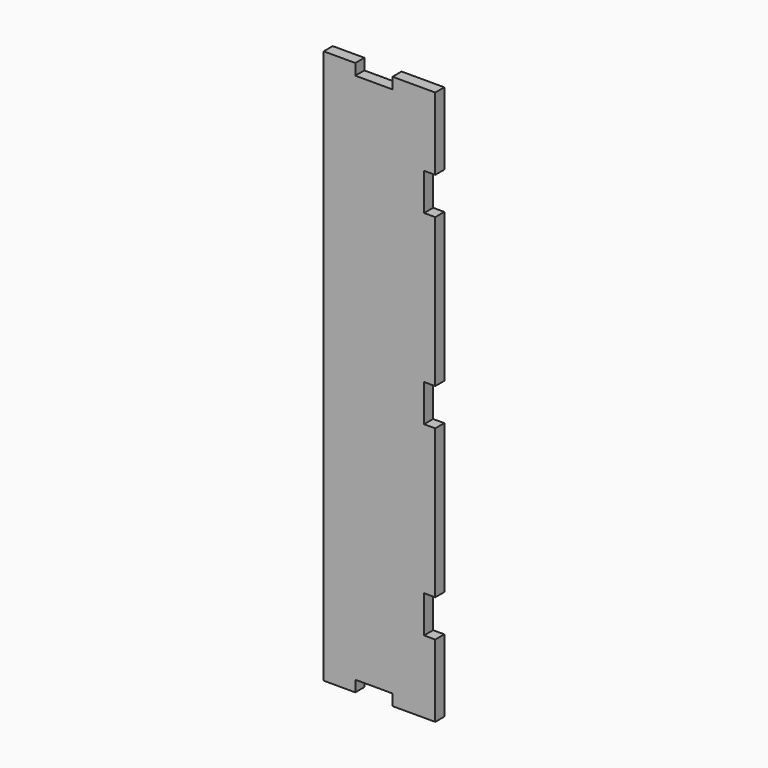
from build123d import *

# Parameters (mm, degrees)
F1_DEPTH = 3.048


with BuildPart() as f1:
    # F0 (on Front) → F1 (new body)
    with BuildSketch(Plane.XZ):
        Polygon((-6.500012, -74.500003), (-6.500012, -71.500009), (3.499993, -71.500009), (3.499993, -74.500003), (14.999995, -74.500003), (14.999995, -54.999992), (12.000001, -54.999992), (12.000001, -45.000012), (14.999995, -45.000012), (14.999995, -4.99999), (12.000001, -4.99999), (12.000001, 4.99999), (14.999995, 4.99999), (14.999995, 45.000012), (12.000001, 45.000012), (12.000001, 54.999992), (14.999995, 54.999992), (14.999995, 74.500003), (3.499993, 74.500003), (3.499993, 71.500009), (-6.500012, 71.500009), (-6.500012, 74.500003), (-14.999995, 74.500003), (-14.999995, -74.500003), align=None)
    extrude(amount=F1_DEPTH)


solid = f1.part
